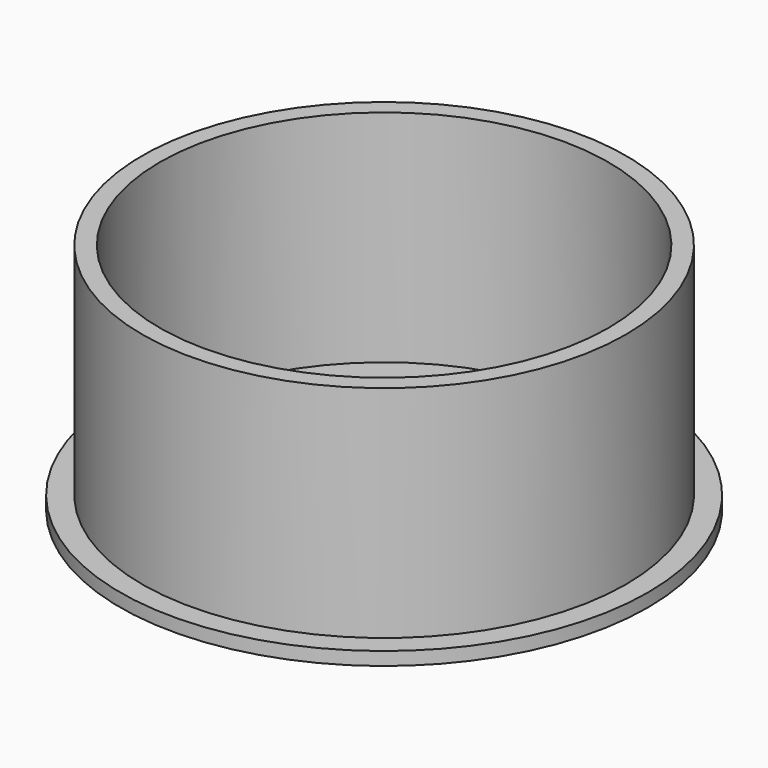
from build123d import *

# Parameters (mm, degrees)
SKETCH_R     = 60
PAD_DEPTH    = 3
SKETCH001_R  = 55
PAD001_DEPTH = 50
SKETCH002_R  = 51
POCKET_DEPTH = 50


with BuildPart() as part:
    # Sketch → Pad (new body)
    with BuildSketch(Plane.XY):
        Circle(SKETCH_R)
    extrude(amount=PAD_DEPTH)

    # Sketch001 (on Face3 of Pad) → Pad001 (join)
    with BuildSketch(Plane.XY.offset(3)):
        Circle(SKETCH001_R)
    extrude(amount=PAD001_DEPTH)

    # Sketch002 (on Face5 of Pad001) → Pocket (cut)
    with BuildSketch(Plane.XY.offset(53)):
        Circle(SKETCH002_R)
    extrude(amount=-POCKET_DEPTH, mode=Mode.SUBTRACT)


solid = part.part
